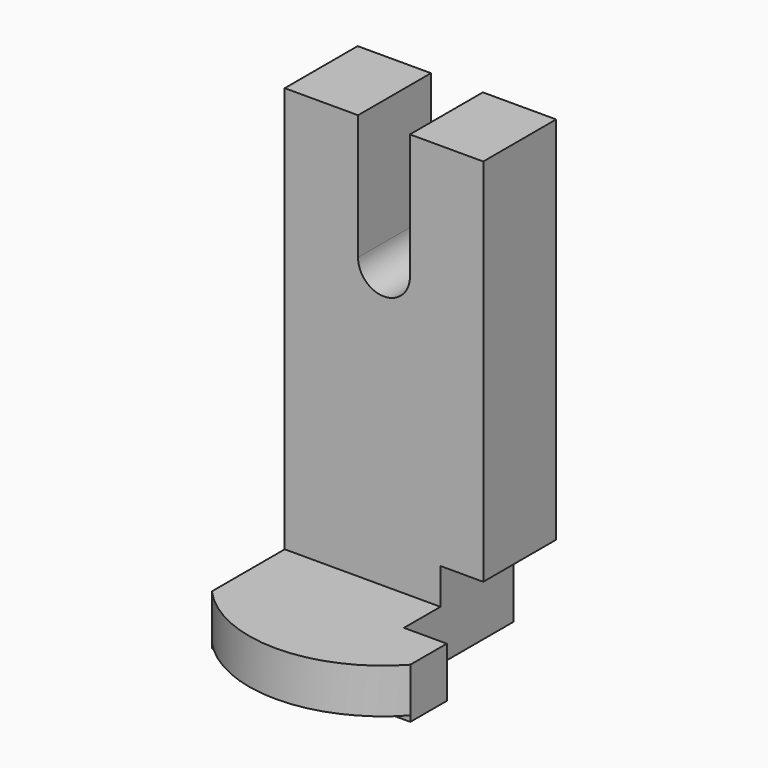
from build123d import *

# Parameters (mm, degrees)
F0_W      = 55.3297251463
F0_H      = 127.18950212
F1_DEPTH  = 25.4
F2_W      = 7.2318934835
F2_H      = 34.8967574537
F3_DEPTH  = 25.4
F5_DEPTH  = 25.4
F6_W      = 55.3297251463
F6_H      = 14.0431076288
F7_DEPTH  = 25.4
F9_DEPTH  = 12.446
F10_W     = 25.4
F10_H     = 24.0572243929
F11_DEPTH = 11.938
F12_W     = 11.938
F12_H     = 12.7
F13_DEPTH = 25.4


with BuildPart() as f1:
    # F0 (on Front) → F1 (new body)
    with BuildSketch(Plane.XZ):
        Rectangle(F0_W, F0_H)
    extrude(amount=-F1_DEPTH)

    # F2 (on face) → F3 (cut)
    with BuildSketch(Plane.XZ):
        with Locations((-3.6159467418, 46.1463723332)):
            Rectangle(F2_W, F2_H)
        with Locations((3.6159467418, 46.1463723332)):
            Rectangle(F2_W, F2_H)
    extrude(amount=-F3_DEPTH, mode=Mode.SUBTRACT)

    # F4 (on face) → F5 (cut)
    with BuildSketch(Plane(origin=(0, 25.4, 0), x_dir=(-1, 0, 0), z_dir=(0, 1, 0))):
        with BuildLine():
            Line((7.2318934835, 28.6979936063), (-7.2318934835, 28.6979936063))
            ThreePointArc((-7.2318934835, 28.6979936063), (0, 21.4661001228), (7.2318934835, 28.6979936063))
        make_face()
    extrude(amount=-F5_DEPTH, mode=Mode.SUBTRACT)

    # F6 (on face) → F7 (join)
    with BuildSketch(Plane.XZ):
        with Locations((0, -56.5731972456)):
            Rectangle(F6_W, F6_H)
    extrude(amount=F7_DEPTH)

    # F8 (on face) → F9 (join)
    with BuildSketch(Plane.XY.offset(-49.5516434312)):
        with BuildLine():
            Line((27.6648625731, -25.4), (-27.6648625731, -25.4))
            ThreePointArc((-27.6648625731, -25.4), (0, -37.6812428416), (27.6648625731, -25.4))
        make_face()
    extrude(amount=-F9_DEPTH)

    # F10 (on face) → F11 (cut)
    with BuildSketch(Plane.YZ.offset(27.6648625731)):
        with Locations((12.7, -51.5661388636)):
            Rectangle(F10_W, F10_H)
    extrude(amount=-F11_DEPTH, mode=Mode.SUBTRACT)

    # F12 (on face) → F13 (cut)
    with BuildSketch(Plane.XY.offset(-49.5516434312)):
        with Locations((21.6958625731, -6.35)):
            Rectangle(F12_W, F12_H)
    extrude(amount=-F13_DEPTH, mode=Mode.SUBTRACT)


solid = f1.part
